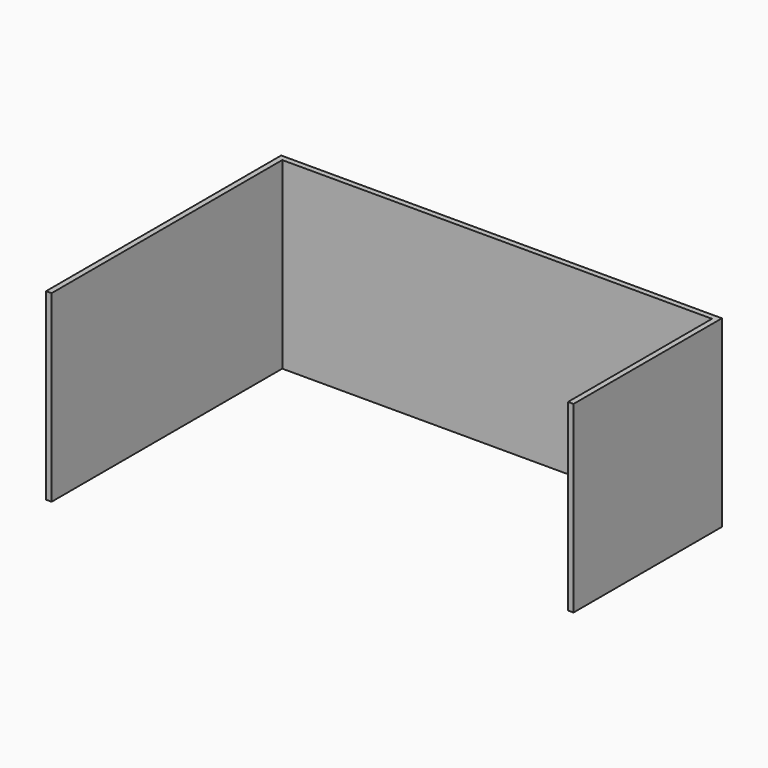
from build123d import *

# Parameters (mm, degrees)
F0_W     = 15
F0_H     = 785
F0_H_2   = 490
F1_DEPTH = 500


with BuildPart() as f1:
    # F0 (on Top) → F1 (new body)
    with BuildSketch(Plane.XY):
        with Locations((-588.908062, 108.815445)):
            Rectangle(F0_W, F0_H)
        Polygon((603.591938, 516.315445), (-596.408062, 516.315445), (-596.408062, 501.315445), (-581.408062, 501.315445), (588.591938, 501.315445), (603.591938, 501.315445), align=None)
        with Locations((596.091938, 256.315445)):
            Rectangle(F0_W, F0_H_2)
    extrude(amount=F1_DEPTH)


solid = f1.part
